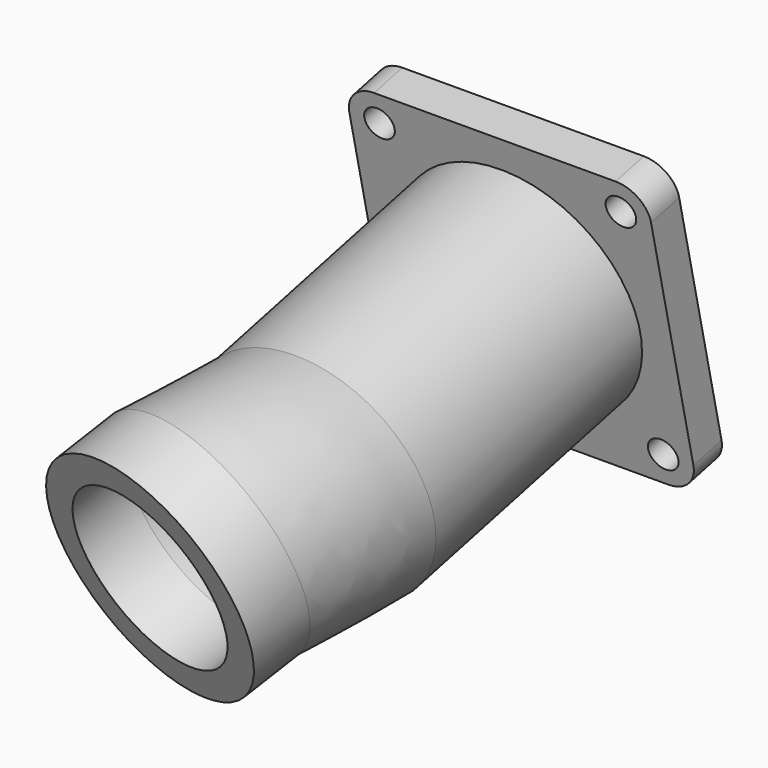
from build123d import *

# Parameters (mm, degrees)
F4_R      = 25.019
F4_R_2    = 18.669
F11_DEPTH = 12.7
F12_DEPTH = 63.5
F13_R     = 3.175
F13_R_2   = 18.669
F14_DEPTH = 7.62


with BuildPart() as f10:
    # F10: sweep along a path in F9
    with BuildLine(Plane(origin=(0, 0, 0), x_dir=(0.8667959165, 0, 0.4986630517), z_dir=(-0.4986630517, 0, 0.8667959165))) as f10_path:
        ThreePointArc((0, 0), (2.3065003197, 12.6070261986), (3.0790769281, 25.4))
    # F4 (on 3pt) → F10 (sweep)
    with BuildSketch(Plane(origin=(0, 0, 0), x_dir=(0.9804839079, -0.1848249753, -0.0670151833), z_dir=(-0.1965993547, -0.9217625069, -0.3342193511))):
        Circle(F4_R)
        Circle(F4_R_2, mode=Mode.SUBTRACT)
    sweep(path=f10_path.line)

    # F11 (add): a face of the model
    f11_faces = [f10.faces().sort_by_distance(p)[0] for p in [
        (-23.8368931593, 4.4933457387, 1.6292299652),
    ]]
    extrude(f11_faces, amount=F11_DEPTH)

    # F12 (add): a face of the model
    f12_faces = [f10.faces().sort_by_distance(p)[0] for p in [
        (-21.6002276868, 25.0204927062, 2.9159716408),
    ]]
    extrude(f12_faces, amount=F12_DEPTH)

    # F13 (on face) → F14 (join)
    with BuildSketch(Plane(origin=(-0.2452994322, 86.4481864715, 19.4520382221), x_dir=(-0.9999961682, -0.0027007768, -0.0006077121), z_dir=(-0.0027683044, 0.9756031265, 0.2195242038))):
        with BuildLine():
            Line((-28.1384539053, -35.8279679991), (22.6615460947, -35.8279679991))
            ThreePointArc((22.6615460947, -35.8279679991), (27.1516741552, -33.9680960597), (29.0115460947, -29.4779679991))
            Line((29.0115460947, -29.4779679991), (29.0115460947, 21.3220320009))
            ThreePointArc((29.0115460947, 21.3220320009), (27.1516741552, 25.8121600614), (22.6615460947, 27.6720320009))
            Line((22.6615460947, 27.6720320009), (-28.1384539053, 27.6720320009))
            ThreePointArc((-28.1384539053, 27.6720320009), (-32.6285819658, 25.8121600614), (-34.4884539053, 21.3220320009))
            Line((-34.4884539053, 21.3220320009), (-34.4884539053, -29.4779679991))
            ThreePointArc((-34.4884539053, -29.4779679991), (-32.6285819658, -33.9680960597), (-28.1384539053, -35.8279679991))
        make_face()
        with Locations((-28.1384539053, -29.4779679991)):
            Circle(F13_R, mode=Mode.SUBTRACT)
        with Locations((22.6615460947, -29.4779679991)):
            Circle(F13_R, mode=Mode.SUBTRACT)
        with Locations((-28.1384539053, 21.3220320009)):
            Circle(F13_R, mode=Mode.SUBTRACT)
        with Locations((-2.7384539053, -4.0779679991)):
            Circle(F13_R_2, mode=Mode.SUBTRACT)
        with Locations((22.6615460947, 21.3220320009)):
            Circle(F13_R, mode=Mode.SUBTRACT)
    extrude(amount=-F14_DEPTH)


solid = f10.part
